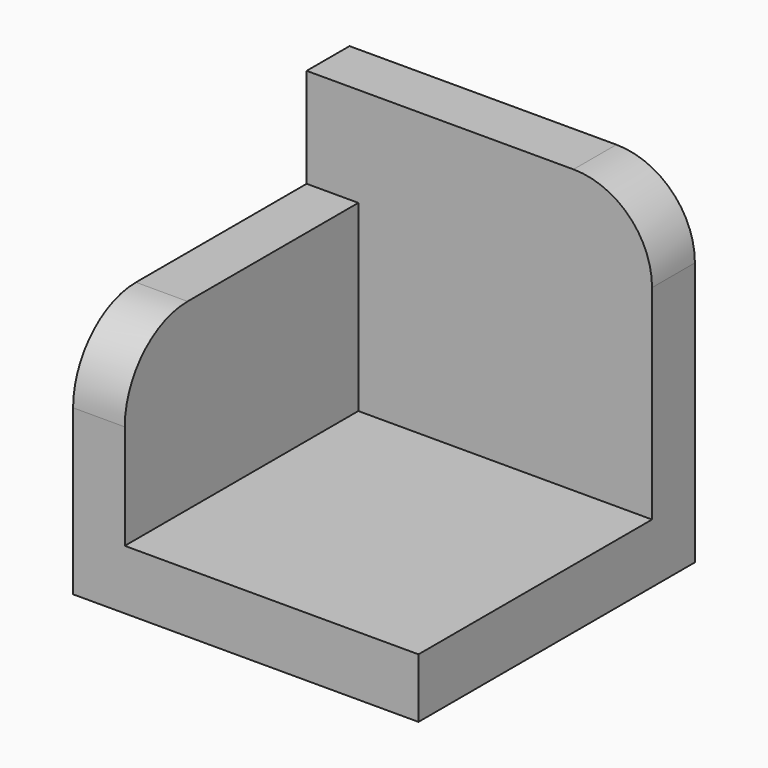
from build123d import *

# Parameters (mm, degrees)
F0_W     = 87.9665389657
F0_H     = 87.1540307999
F1_DEPTH = 44
F2_W     = 74.8088378459
F2_H     = 74.356541276
F3_DEPTH = 72
F4_W     = 74.356541276
F4_H     = 25.3268238157
F5_DEPTH = 13.1587011198
F6_R     = 20


with BuildPart() as f1:
    # F0 (on Front) → F1 (new body, symmetric)
    with BuildSketch(Plane.XZ):
        Rectangle(F0_W, F0_H)
    extrude(amount=F1_DEPTH, both=True)

    # F2 (on face) → F3 (cut)
    with BuildSketch(Plane.XY.offset(43.5770153999)):
        with Locations((6.5788505599, -6.821729362)):
            Rectangle(F2_W, F2_H)
    extrude(amount=-F3_DEPTH, mode=Mode.SUBTRACT)

    # F4 (on face) → F5 (cut, through all)
    with BuildSketch(Plane.YZ.offset(-30.8255683631)):
        with Locations((-6.821729362, 30.9136034921)):
            Rectangle(F4_W, F4_H)
    extrude(amount=-F5_DEPTH, mode=Mode.SUBTRACT)

    # F6
    f6_edges = [f1.edges().sort_by_distance(p)[0] for p in [
        (43.983269, 37.178271, 43.577015),
        (-37.404419, -44, 18.250192),
    ]]
    fillet(f6_edges, radius=F6_R)


solid = f1.part
